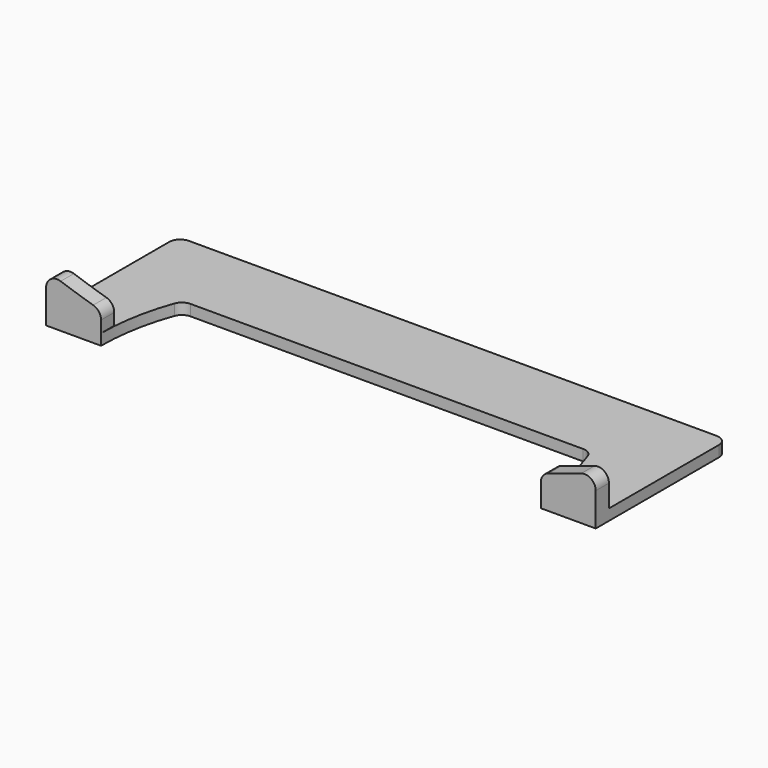
from build123d import *

# Parameters (mm, degrees)
F1_DEPTH = 2
F2_W     = 10
F2_H     = 3
F3_DEPTH = 10
F4_R     = 145
F5_DEPTH = 25
F6_R     = 2


with BuildPart() as f1:
    # F0 (on Top) → F1 (new body)
    with BuildSketch(Plane.XY):
        with BuildLine():
            Line((50, 15), (-50, 15))
            Line((-50, 15), (-50, -15))
            Line((-50, -15), (-40, -15))
            ThreePointArc((-40, -15), (-39.2634671, -7.3593095017), (-37.0809924355, 0))
            Line((-37.0809924355, 0), (37.0809924355, 0))
            ThreePointArc((37.0809924355, 0), (39.2634671, -7.3593095017), (40, -15))
            Line((40, -15), (50, -15))
            Line((50, -15), (50, 15))
        make_face()
    extrude(amount=F1_DEPTH)

    # F2 (on face) → F3 (join)
    with BuildSketch(Plane.XY.offset(2)):
        with Locations((-45, -13.5)):
            Rectangle(F2_W, F2_H)
        with Locations((45, -13.5)):
            Rectangle(F2_W, F2_H)
    extrude(amount=F3_DEPTH)

    # F4 (on Front) → F5 (cut)
    with BuildSketch(Plane.XZ):
        with Locations((0, 145)):
            Circle(F4_R)
    extrude(amount=F5_DEPTH, mode=Mode.SUBTRACT)

    # F6
    f6_edges = [f1.edges().sort_by_distance(p)[0] for p in [
        (-50, -13.5, 8.893424),
        (50, -13.5, 8.893424),
        (-40, -13.5, 5.626401),
        (40, -13.5, 5.626401),
        (37.080992, 0, 1),
        (-37.080992, 0, 1),
        (-50, 15, 1),
        (50, 15, 1),
    ]]
    fillet(f6_edges, radius=F6_R)


solid = f1.part
